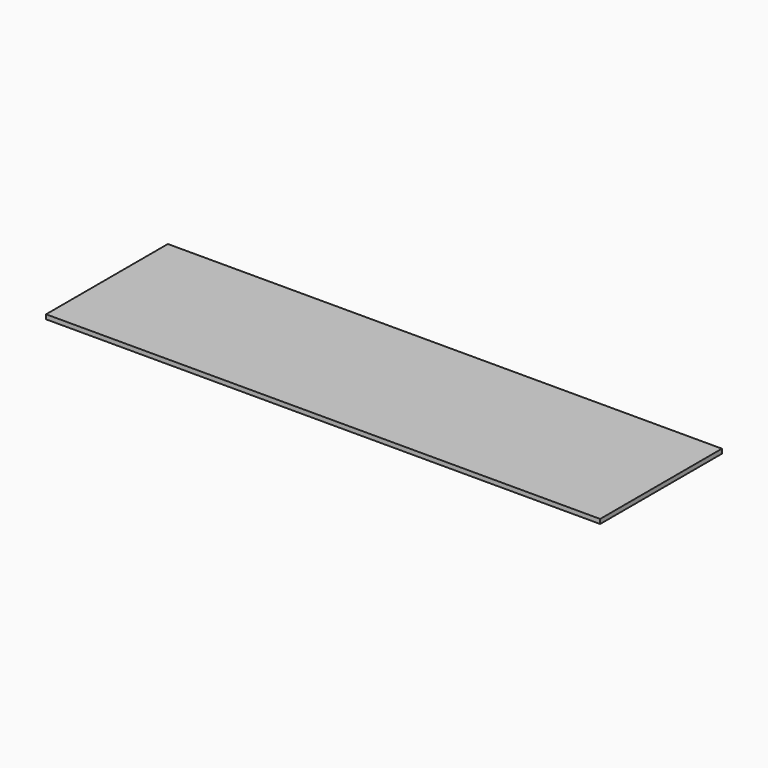
from build123d import *

# Parameters (mm, degrees)
SKETCH_W  = 2366.5
SKETCH_H  = 650.1
PAD_DEPTH = 19.05


with BuildPart() as part:
    # Sketch → Pad (new body)
    with BuildSketch(Plane.XY):
        with Locations((1183.25, 325.05)):
            Rectangle(SKETCH_W, SKETCH_H)
    extrude(amount=PAD_DEPTH)


solid = part.part
